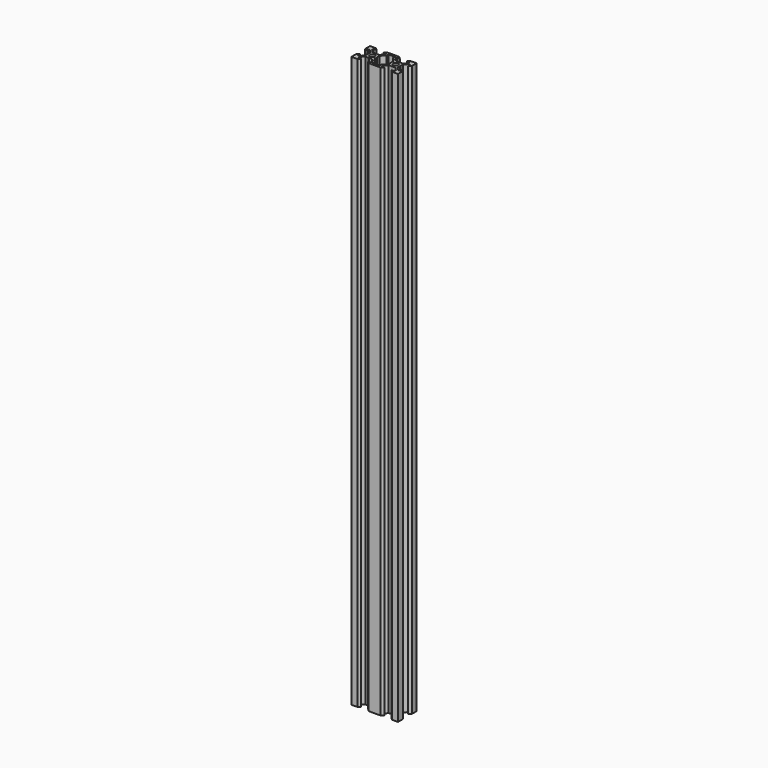
from build123d import *

# Parameters (mm, degrees)
SKETCH002_R         = 2.1
PAD002_DEPTH        = 490
CHAMFER002_1_ANGLE  = 45
CHAMFER002_1_SIZE   = 1.7
CHAMFER002_2_ANGLE  = 45
CHAMFER002_2_SIZE   = 1.7
CHAMFER002_3_ANGLE  = 45
CHAMFER002_3_SIZE   = 1.7
CHAMFER002_4_ANGLE  = 45
CHAMFER002_4_SIZE   = 1.7
CHAMFER002_5_ANGLE  = 45
CHAMFER002_5_SIZE   = 1.7
CHAMFER002_6_ANGLE  = 45
CHAMFER002_6_SIZE   = 1.7
CHAMFER002_7_ANGLE  = 45
CHAMFER002_7_SIZE   = 1.7
CHAMFER002_8_ANGLE  = 45
CHAMFER002_8_SIZE   = 1.7
CHAMFER002_9_ANGLE  = 45
CHAMFER002_9_SIZE   = 1.7
CHAMFER002_10_ANGLE = 45
CHAMFER002_10_SIZE  = 1.7
CHAMFER002_11_ANGLE = 45
CHAMFER002_11_SIZE  = 1.7
CHAMFER002_12_ANGLE = 45
CHAMFER002_12_SIZE  = 1.7
FILLET002_R         = 0.2


with BuildPart() as part:
    # Sketch002 → Pad002 (new body)
    with BuildSketch(Plane.XY):
        Polygon((0, 3.723883), (0.176777, 3.90066), (2.84, 3.90066), (5.49934, 6.56), (5.49934, 8.2), (3.1, 8.2), (3.1, 10), (16.9, 10), (16.9, 8.2), (14.50066, 8.2), (14.50066, 6.56), (17.16, 3.90066), (19.823223, 3.90066), (20, 3.723883), (20.176777, 3.90066), (22.84, 3.90066), (25.49934, 6.56), (25.49934, 8.2), (23.1, 8.2), (23.1, 10), (30, 10), (30, 3.1), (28.2, 3.1), (28.2, 5.49934), (26.56, 5.49934), (23.90066, 2.84), (23.90066, 0.176777), (23.723883, 0), (23.90066, -0.176777), (23.90066, -2.84), (26.56, -5.49934), (28.2, -5.49934), (28.2, -3.1), (30, -3.1), (30, -10), (23.1, -10), (23.1, -8.2), (25.49934, -8.2), (25.49934, -6.56), (22.84, -3.90066), (20.176777, -3.90066), (20, -3.723883), (19.823223, -3.90066), (17.16, -3.90066), (14.50066, -6.56), (14.50066, -8.2), (16.9, -8.2), (16.9, -10), (3.1, -10), (3.1, -8.2), (5.49934, -8.2), (5.49934, -6.56), (2.84, -3.90066), (0.176777, -3.90066), (0, -3.723883), (-0.176777, -3.90066), (-2.84, -3.90066), (-5.49934, -6.56), (-5.49934, -8.2), (-3.1, -8.2), (-3.1, -10), (-10, -10), (-10, -3.1), (-8.2, -3.1), (-8.2, -5.49934), (-6.56, -5.49934), (-3.90066, -2.84), (-3.90066, -0.176777), (-3.723883, 0), (-3.90066, 0.176777), (-3.90066, 2.84), (-6.56, 5.49934), (-8.2, 5.49934), (-8.2, 3.1), (-10, 3.1), (-10, 10), (-3.1, 10), (-3.1, 8.2), (-5.49934, 8.2), (-5.49934, 6.56), (-2.84, 3.90066), (-0.176777, 3.90066), align=None)
        Circle(SKETCH002_R, mode=Mode.SUBTRACT)
        with Locations((20, 0)):
            Circle(SKETCH002_R, mode=Mode.SUBTRACT)
        Polygon((7.29934, 6.23868), (3.90066, 2.84), (3.90066, 0.176777), (3.723883, 0), (3.90066, -0.176777), (3.90066, -2.84), (7.29934, -6.23868), (7.29934, -8.2), (12.70066, -8.2), (12.70066, -6.23868), (16.09934, -2.84), (16.09934, -0.176777), (16.276117, 0), (16.09934, 0.176777), (16.09934, 2.84), (12.70066, 6.23868), (12.70066, 8.2), (7.29934, 8.2), align=None, mode=Mode.SUBTRACT)
    extrude(amount=PAD002_DEPTH)

    # Chamfer002 1
    chamfer002_1_edges = [part.edges().sort_by_distance(p)[0] for p in [
        (3.1, -10, 245),
    ]]
    chamfer002_1_side = part.faces().sort_by_distance((10, -10, 245))[0]
    chamfer(chamfer002_1_edges, length=CHAMFER002_1_SIZE, angle=CHAMFER002_1_ANGLE, reference=chamfer002_1_side)

    # Chamfer002 2
    chamfer002_2_edges = [part.edges().sort_by_distance(p)[0] for p in [
        (16.9, -10, 245),
    ]]
    chamfer002_2_side = part.faces().sort_by_distance((16.9, -9.1, 245))[0]
    chamfer(chamfer002_2_edges, length=CHAMFER002_2_SIZE, angle=CHAMFER002_2_ANGLE, reference=chamfer002_2_side)

    # Chamfer002 3
    chamfer002_3_edges = [part.edges().sort_by_distance(p)[0] for p in [
        (23.1, -10, 245),
    ]]
    chamfer002_3_side = part.faces().sort_by_distance((26.55, -10, 245))[0]
    chamfer(chamfer002_3_edges, length=CHAMFER002_3_SIZE, angle=CHAMFER002_3_ANGLE, reference=chamfer002_3_side)

    # Chamfer002 4
    chamfer002_4_edges = [part.edges().sort_by_distance(p)[0] for p in [
        (-3.1, -10, 245),
    ]]
    chamfer002_4_side = part.faces().sort_by_distance((-3.1, -9.1, 245))[0]
    chamfer(chamfer002_4_edges, length=CHAMFER002_4_SIZE, angle=CHAMFER002_4_ANGLE, reference=chamfer002_4_side)

    # Chamfer002 5
    chamfer002_5_edges = [part.edges().sort_by_distance(p)[0] for p in [
        (30, -3.1, 245),
    ]]
    chamfer002_5_side = part.faces().sort_by_distance((29.1, -3.1, 245))[0]
    chamfer(chamfer002_5_edges, length=CHAMFER002_5_SIZE, angle=CHAMFER002_5_ANGLE, reference=chamfer002_5_side)

    # Chamfer002 6
    chamfer002_6_edges = [part.edges().sort_by_distance(p)[0] for p in [
        (30, 3.1, 245),
    ]]
    chamfer002_6_side = part.faces().sort_by_distance((30, 6.55, 245))[0]
    chamfer(chamfer002_6_edges, length=CHAMFER002_6_SIZE, angle=CHAMFER002_6_ANGLE, reference=chamfer002_6_side)

    # Chamfer002 7
    chamfer002_7_edges = [part.edges().sort_by_distance(p)[0] for p in [
        (23.1, 10, 245),
    ]]
    chamfer002_7_side = part.faces().sort_by_distance((23.1, 9.1, 245))[0]
    chamfer(chamfer002_7_edges, length=CHAMFER002_7_SIZE, angle=CHAMFER002_7_ANGLE, reference=chamfer002_7_side)

    # Chamfer002 8
    chamfer002_8_edges = [part.edges().sort_by_distance(p)[0] for p in [
        (16.9, 10, 245),
    ]]
    chamfer002_8_side = part.faces().sort_by_distance((10, 10, 245))[0]
    chamfer(chamfer002_8_edges, length=CHAMFER002_8_SIZE, angle=CHAMFER002_8_ANGLE, reference=chamfer002_8_side)

    # Chamfer002 9
    chamfer002_9_edges = [part.edges().sort_by_distance(p)[0] for p in [
        (3.1, 10, 245),
    ]]
    chamfer002_9_side = part.faces().sort_by_distance((3.1, 9.1, 245))[0]
    chamfer(chamfer002_9_edges, length=CHAMFER002_9_SIZE, angle=CHAMFER002_9_ANGLE, reference=chamfer002_9_side)

    # Chamfer002 10
    chamfer002_10_edges = [part.edges().sort_by_distance(p)[0] for p in [
        (-3.1, 10, 245),
    ]]
    chamfer002_10_side = part.faces().sort_by_distance((-6.55, 10, 245))[0]
    chamfer(chamfer002_10_edges, length=CHAMFER002_10_SIZE, angle=CHAMFER002_10_ANGLE, reference=chamfer002_10_side)

    # Chamfer002 11
    chamfer002_11_edges = [part.edges().sort_by_distance(p)[0] for p in [
        (-10, -3.1, 245),
    ]]
    chamfer002_11_side = part.faces().sort_by_distance((-10, -6.55, 245))[0]
    chamfer(chamfer002_11_edges, length=CHAMFER002_11_SIZE, angle=CHAMFER002_11_ANGLE, reference=chamfer002_11_side)

    # Chamfer002 12
    chamfer002_12_edges = [part.edges().sort_by_distance(p)[0] for p in [
        (-10, 3.1, 245),
    ]]
    chamfer002_12_side = part.faces().sort_by_distance((-9.1, 3.1, 245))[0]
    chamfer(chamfer002_12_edges, length=CHAMFER002_12_SIZE, angle=CHAMFER002_12_ANGLE, reference=chamfer002_12_side)

    # Fillet002
    fillet002_edges = [part.edges().sort_by_distance(p)[0] for p in [
        (-10, -10, 245),
        (-10, 10, 245),
        (30, 10, 245),
        (30, -10, 245),
    ]]
    fillet(fillet002_edges, radius=FILLET002_R)


solid = part.part
